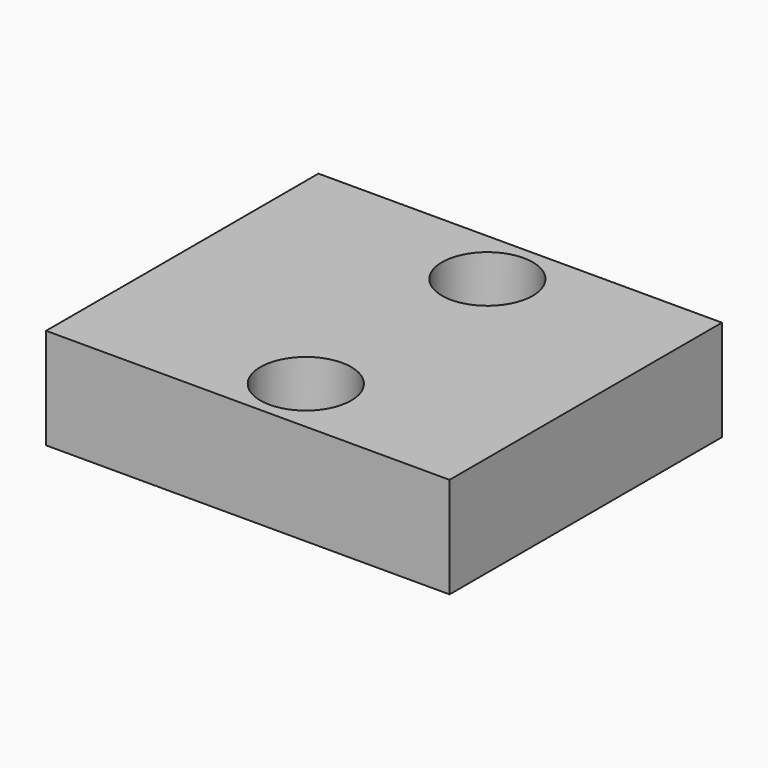
from build123d import *

# Parameters (mm, degrees)
CYLINDER001_R     = 1.8
CYLINDER001_DEPTH = 50
ARRAY001_Y_COUNT  = 2
ARRAY001_Y_PITCH  = 9
BOX002_W          = 16
BOX002_H          = 13.5
BOX002_DEPTH      = 4


with BuildPart() as array001:
    # Cylinder001 → Cylinder001 (new body)
    with BuildSketch(Plane(origin=(8.5, 2.25, -10), x_dir=(1, 0, 0), z_dir=(0, 0, 1))):
        Circle(CYLINDER001_R)
    extrude(amount=CYLINDER001_DEPTH)

    # Array001 Y: Array001 ×2


with BuildPart() as array001_1:
    add(array001.part)
    with Locations(*[(0, i * ARRAY001_Y_PITCH, 0) for i in range(1, ARRAY001_Y_COUNT)]):
        add(array001.part)


with BuildPart() as cut001:
    # Box002 → Box002 (new body)
    with BuildSketch(Plane.XY):
        with Locations((8, 6.75)):
            Rectangle(BOX002_W, BOX002_H)
    extrude(amount=BOX002_DEPTH)

    # Cut001: cut Array001
    add(array001_1.part, mode=Mode.SUBTRACT)


solid = cut001.part
